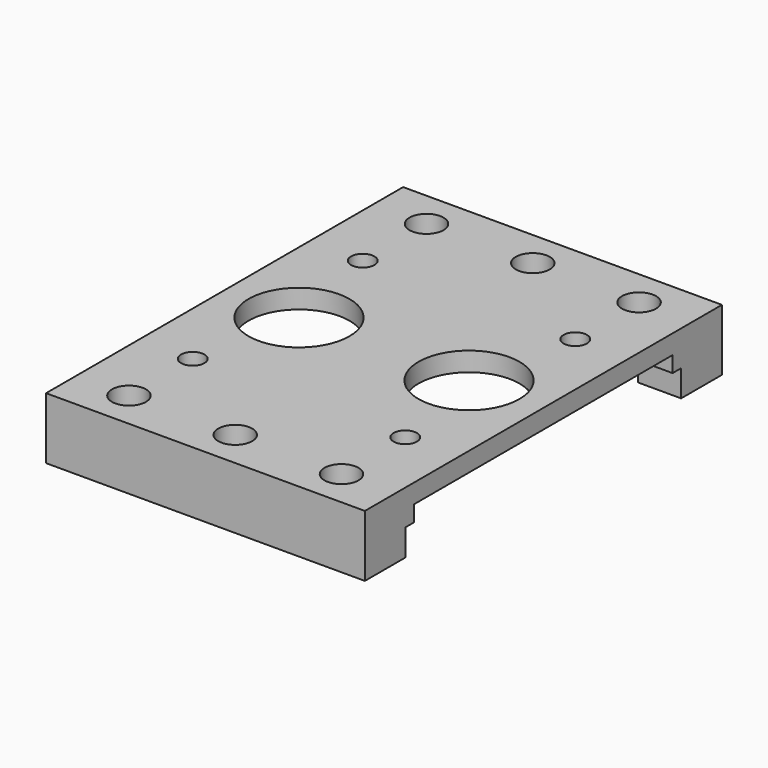
from build123d import *

# Parameters (mm, degrees)
PAD_DEPTH       = 15
PAD_DEPTH_BACK  = 15
SKETCH001_R     = 1.6
HOLE_DEPTH      = 25
SKETCH002_R     = 1.1
POCKET_DEPTH    = 5.801
SKETCH003_R     = 4.75
POCKET001_DEPTH = 5


with BuildPart() as part:
    # Sketch → Pad (new body, two sides)
    with BuildSketch(Plane.YZ) as pad_sk:
        Polygon((-21, 0), (-21, -5.8), (-16.2, -5.8), (-16.2, -3.3), (-15.2, -3.3), (-15.2, -1.8), (15.2, -1.8), (15.2, -3.3), (16.2, -3.3), (16.2, -5.8), (21, -5.8), (21, 0), align=None)
    extrude(amount=PAD_DEPTH)
    extrude(pad_sk.sketch, amount=-PAD_DEPTH_BACK)

    # Sketch001 → Hole (cut)
    with BuildSketch(Plane.XY):
        with Locations((-10, 17.5)):
            Circle(SKETCH001_R)
        with Locations((0, 17.5)):
            Circle(SKETCH001_R)
        with Locations((10, 17.5)):
            Circle(SKETCH001_R)
        with Locations((10, -17.5)):
            Circle(SKETCH001_R)
        with Locations((0, -17.5)):
            Circle(SKETCH001_R)
        with Locations((-10, -17.5)):
            Circle(SKETCH001_R)
    extrude(amount=-HOLE_DEPTH, mode=Mode.SUBTRACT)

    # Sketch002 → Pocket (cut, through all)
    with BuildSketch(Plane.XY):
        with Locations((-10, 10)):
            Circle(SKETCH002_R)
        with Locations((10, 10)):
            Circle(SKETCH002_R)
        with Locations((10, -10)):
            Circle(SKETCH002_R)
        with Locations((-10, -10)):
            Circle(SKETCH002_R)
    extrude(amount=-POCKET_DEPTH, mode=Mode.SUBTRACT)

    # Sketch003 → Pocket001 (cut)
    with BuildSketch(Plane.XY):
        with Locations((-8, 0)):
            Circle(SKETCH003_R)
        with Locations((8, 0)):
            Circle(SKETCH003_R)
    extrude(amount=-POCKET001_DEPTH, mode=Mode.SUBTRACT)


solid = part.part
